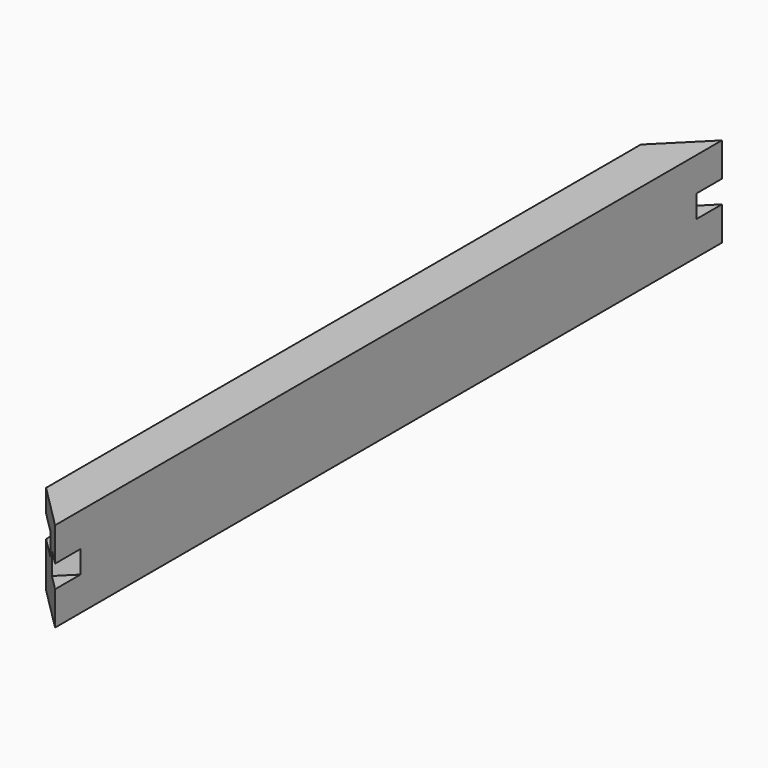
from build123d import *

# Parameters (mm, degrees)
F0_W     = 234.95
F0_H     = 25.4
F1_DEPTH = 12.7
F2_W     = 6.35
F2_H     = 6.35
F3_DEPTH = 234.951
F5_DEPTH = 25.401
F6_W     = 6.35
F6_H     = 6.35
F7_DEPTH = 166.135738
F8_W     = 6.35
F8_H     = 6.35
F9_DEPTH = 166.135738


with BuildPart() as f1:
    # F0 (on Right) → F1 (new body)
    with BuildSketch(Plane.YZ):
        with Locations((0, 12.7)):
            Rectangle(F0_W, F0_H)
    extrude(amount=F1_DEPTH)

    # F2 (on face) → F3 (cut, through all)
    with BuildSketch(Plane(origin=(0, 117.475, 0), x_dir=(-1, 0, 0), z_dir=(0, 1, 0))):
        with Locations((-3.175, 15.875)):
            Rectangle(F2_W, F2_H)
    extrude(amount=-F3_DEPTH, mode=Mode.SUBTRACT)

    # F4 (on face) → F5 (cut, through all)
    with BuildSketch(Plane.XY.offset(25.4)):
        Polygon((0, 117.475), (0, 104.775), (12.7, 117.475), align=None)
        Polygon((12.7, -117.475), (0, -104.775), (0, -117.475), align=None)
    extrude(amount=-F5_DEPTH, mode=Mode.SUBTRACT)

    # F6 (on face) → F7 (cut, through all)
    with BuildSketch(Plane(origin=(-52.3875, -52.3875, 0), x_dir=(0.707107, -0.707107, 0), z_dir=(-0.707107, -0.707107, 0))):
        with Locations((88.872625, 12.7)):
            Rectangle(F6_W, F6_H)
    extrude(amount=-F7_DEPTH, mode=Mode.SUBTRACT)

    # F8 (on face) → F9 (cut, through all)
    with BuildSketch(Plane(origin=(-52.3875, 52.3875, 0), x_dir=(-0.707107, -0.707107, 0), z_dir=(-0.707107, 0.707107, 0))):
        with Locations((-88.872625, 12.7)):
            Rectangle(F8_W, F8_H)
    extrude(amount=-F9_DEPTH, mode=Mode.SUBTRACT)


solid = f1.part
